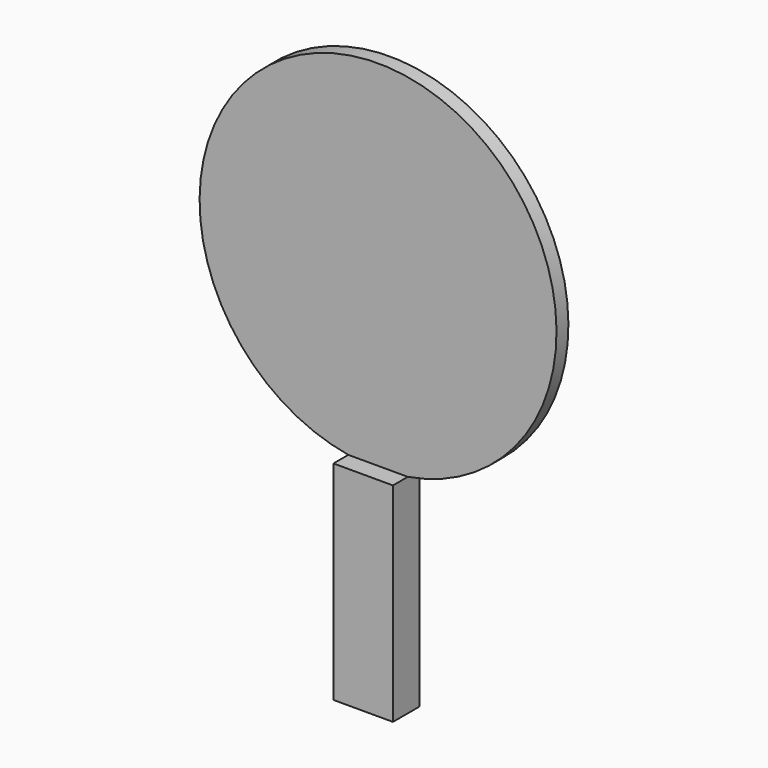
from build123d import *

# Parameters (mm, degrees)
F1_DEPTH = 3.175
F2_W     = 25.4
F2_H     = 88.9
F3_DEPTH = 7.9375


with BuildPart() as f1:
    # F0 (on Front) → F1 (new body, symmetric)
    with BuildSketch(Plane.XZ):
        with BuildLine():
            Line((-12.7, 88.9), (-12.7, 0))
            Line((-12.7, 0), (12.7, 0))
            Line((12.7, 0), (12.7, 88.9))
            ThreePointArc((12.7, 88.9), (0, 240.234213), (-12.7, 88.9))
        make_face()
    extrude(amount=F1_DEPTH, both=True)

    # F2 (on face) → F3 (join)
    with BuildSketch(Plane.XZ.offset(3.175)):
        with Locations((0, 44.45)):
            Rectangle(F2_W, F2_H)
    extrude(amount=F3_DEPTH)


solid = f1.part
